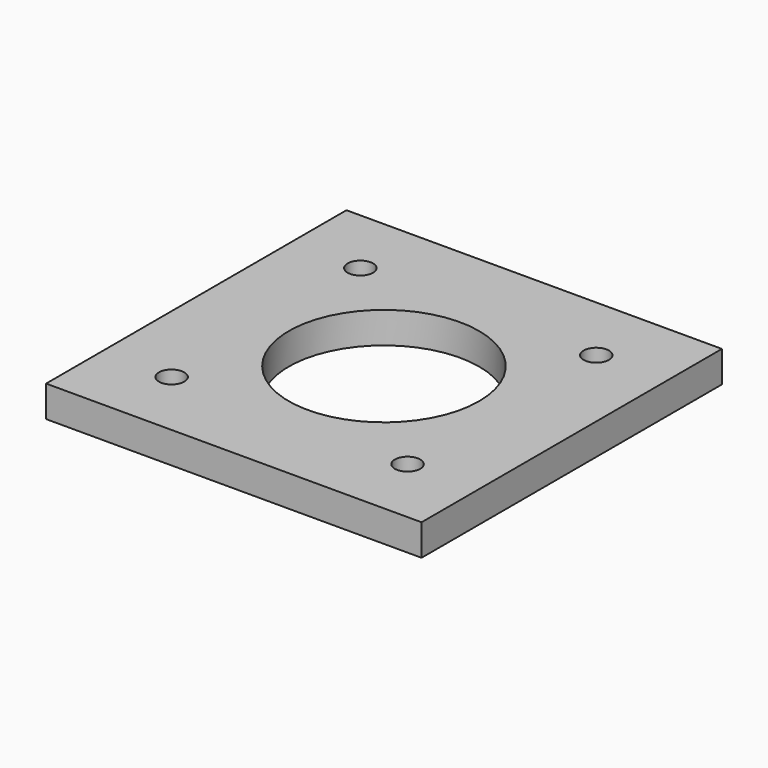
from build123d import *

# Parameters (mm, degrees)
F0_W     = 76.2
F0_H     = 76.2
F0_R     = 2.574196
F0_R_2   = 19.306469
F1_DEPTH = 6.35


with BuildPart() as f1:
    # F0 (on Top) → F1 (new body)
    with BuildSketch(Plane.XY):
        Rectangle(F0_W, F0_H)
        with Locations((-23.971821, -23.912198)):
            Circle(F0_R, mode=Mode.SUBTRACT)
        with Locations((23.908224, -23.912198)):
            Circle(F0_R, mode=Mode.SUBTRACT)
        with Locations((-0.031798, 0.027824)):
            Circle(F0_R_2, mode=Mode.SUBTRACT)
        with Locations((-23.971821, 23.967846)):
            Circle(F0_R, mode=Mode.SUBTRACT)
        with Locations((23.908224, 23.967846)):
            Circle(F0_R, mode=Mode.SUBTRACT)
    extrude(amount=F1_DEPTH)


solid = f1.part
